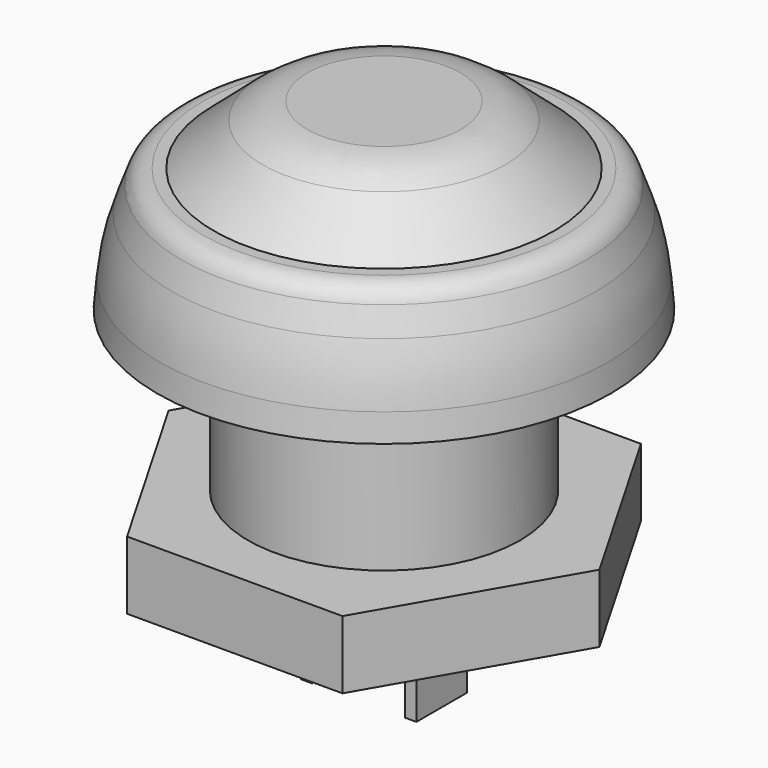
from build123d import *

# Parameters (mm, degrees)
F0_R      = 6
F1_DEPTH  = 10
F4_W      = 0.5
F4_H      = 2.8
F5_DEPTH  = 3.6
F10_R     = 5.75
F11_DEPTH = 3


with BuildPart() as f1:
    # F0 (on Top) → F1 (new body)
    with BuildSketch(Plane.XY):
        Circle(F0_R)
    extrude(amount=F1_DEPTH)

    # F2 (on Front) → F3 (revolve)
    with BuildSketch(Plane.XZ):
        Polygon((5.5, -0.5), (6, 0), (0, 0), (0, -1), (5.5, -1), align=None)
    revolve(axis=Axis((0, 0, -1.316218), (0, 0, -1)))

    # F6 (on Front) → F7 (revolve)
    with BuildSketch(Plane.XZ):
        with BuildLine():
            Line((0, 15.5), (0, 10))
            Line((0, 10), (10, 10))
            Line((10, 10), (9.896021, 11.188485))
            ThreePointArc((9.896021, 11.188485), (9.697034, 12.481324), (9.331, 13.737129))
            Line((9.331, 13.737129), (8.928853, 14.84202))
            ThreePointArc((8.928853, 14.84202), (8.562737, 15.319152), (7.98916, 15.5))
            Line((7.98916, 15.5), (0, 15.5))
        make_face()
    revolve(axis=Axis((0, 0, 14.191122), (0, 0, 1)))


with BuildPart() as f5:
    # F4 (on face) → F5 (new body)
    with BuildSketch(Plane(origin=(0, 0, -1), x_dir=(1, 0, 0), z_dir=(0, 0, -1))):
        with Locations((2.3, 0)):
            Rectangle(F4_W, F4_H)
        with Locations((-2.3, 0)):
            Rectangle(F4_W, F4_H)
    extrude(amount=F5_DEPTH)


with BuildPart() as f9:
    # F8 (on Front) → F9 (revolve)
    with BuildSketch(Plane.XZ):
        with BuildLine():
            Line((0, 18.1), (0, 15.5))
            Line((0, 15.5), (7.5, 15.5))
            Line((7.5, 15.5), (5.345692, 17.367067))
            ThreePointArc((5.345692, 17.367067), (4.429422, 17.910801), (3.3809, 18.1))
            Line((3.3809, 18.1), (0, 18.1))
        make_face()
    revolve(axis=Axis((0, 0, 9.80562), (0, 0, 1)))


with BuildPart() as f11:
    # F10 (on Top) → F11 (new body)
    with BuildSketch(Plane.XY):
        Polygon((-9.5, 0), (-4.75, -8.227241), (4.75, -8.227241), (9.5, 0), (4.75, 8.227241), (-4.75, 8.227241), align=None)
        Circle(F10_R, mode=Mode.SUBTRACT)
    extrude(amount=F11_DEPTH)


solid = Compound([f1.part, f5.part, f9.part, f11.part])
